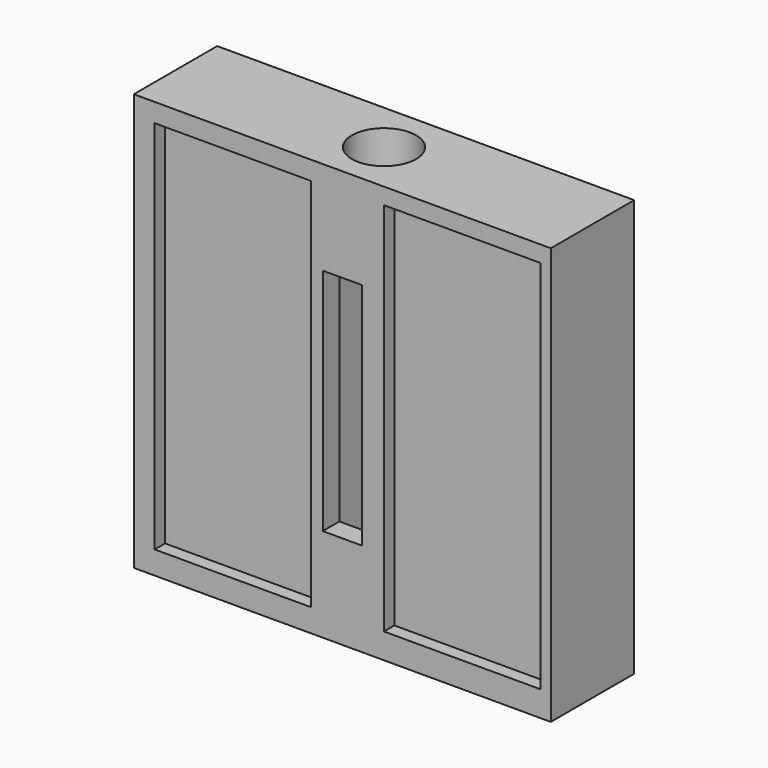
from build123d import *

# Parameters (mm, degrees)
F0_W      = 50.8
F0_H      = 12.7
F1_DEPTH  = 50.8
F3_START  = -5.08
F2_W      = 6.35
F2_H      = 7.62
F3_DEPTH  = 39.37
F4_R      = 3.91795
F5_DEPTH  = 6.35
F6_W      = 4.7625
F6_H      = 27.94
F7_DEPTH  = 12.701
F8_W      = 19.05
F8_H      = 45.72
F9_DEPTH  = 1.5875
F10_W     = 19.05
F10_H     = 45.72
F11_DEPTH = 1.5875


with BuildPart() as f1:
    # F0 (on Top) → F1 (new body)
    with BuildSketch(Plane.XY):
        Rectangle(F0_W, F0_H)
    extrude(amount=F1_DEPTH)

    # F2 (on face) → F3 (cut)
    with BuildSketch(Plane.XY.offset(50.8).offset(F3_START)):
        Rectangle(F2_W, F2_H)
    extrude(amount=-F3_DEPTH, mode=Mode.SUBTRACT)

    # F4 (on face) → F5 (cut)
    with BuildSketch(Plane.XY.offset(50.8)):
        Circle(F4_R)
    extrude(amount=-F5_DEPTH, mode=Mode.SUBTRACT)

    # F6 (on face) → F7 (cut, through all)
    with BuildSketch(Plane.XZ.offset(6.35)):
        with Locations((0, 25.4)):
            Rectangle(F6_W, F6_H)
    extrude(amount=-F7_DEPTH, mode=Mode.SUBTRACT)

    # F8 (on face) → F9 (cut)
    with BuildSketch(Plane.XZ.offset(6.35)):
        with Locations((-13.3303813094, 25.6625675702)):
            Rectangle(F8_W, F8_H)
    extrude(amount=-F9_DEPTH, mode=Mode.SUBTRACT)

    # F10 (on face) → F11 (cut)
    with BuildSketch(Plane.XZ.offset(6.35)):
        with Locations((14.600383172, 25.9514273362)):
            Rectangle(F10_W, F10_H)
    extrude(amount=-F11_DEPTH, mode=Mode.SUBTRACT)


solid = f1.part
